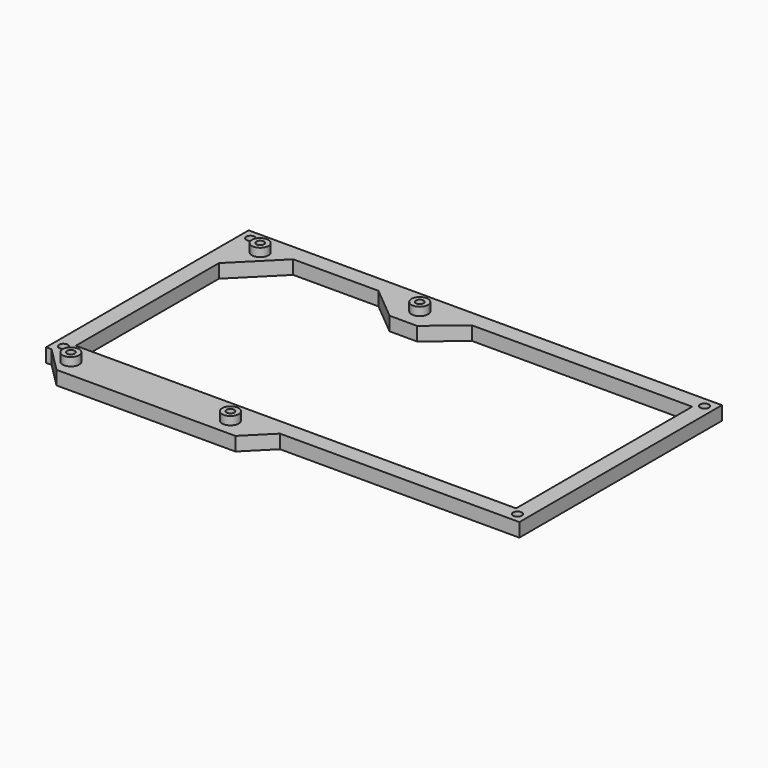
from build123d import *

# Parameters (mm, degrees)
SKETCH_W          = 170
SKETCH_H          = 90
SKETCH_W_2        = 160
SKETCH_H_2        = 80
PAD_DEPTH         = 5
PAD001_DEPTH      = 5
PAD002_DEPTH      = 5
PAD003_DEPTH      = 5
SKETCH004_R       = 1.6
POCKET_DEPTH      = 5
SKETCH005_R       = 3
PAD004_DEPTH      = 3
SKETCH006_R       = 1.4
POCKET001_DEPTH   = 10
COPYSKETCH032_W   = 172
COPYSKETCH032_H   = 92
COPYSKETCH032_W_2 = 170
COPYSKETCH032_H_2 = 90
PAD006_DEPTH      = 5


with BuildPart() as part:
    # Sketch → Pad (new body)
    with BuildSketch(Plane.XY):
        Rectangle(SKETCH_W, SKETCH_H)
        Rectangle(SKETCH_W_2, SKETCH_H_2, mode=Mode.SUBTRACT)
    extrude(amount=PAD_DEPTH)

    # Sketch001 → Pad001 (join)
    with BuildSketch(Plane.XY):
        Polygon((-80, 40), (-80, 25), (-65, 40), align=None)
    extrude(amount=PAD001_DEPTH)

    # Sketch002 → Pad002 (join)
    with BuildSketch(Plane.XY):
        Polygon((-85, -45), (-75, -55), (-10, -55), (0, -45), align=None)
    extrude(amount=PAD002_DEPTH)

    # Sketch003 → Pad003 (join)
    with BuildSketch(Plane.XY):
        Polygon((0, 40), (-12, 30), (-22, 30), (-34, 40), align=None)
    extrude(amount=PAD003_DEPTH)

    # Sketch004 (on Face18 of Pad003) → Pocket (cut)
    with BuildSketch(Plane.XY.offset(5)):
        with Locations((-82.5, 42.5)):
            Circle(SKETCH004_R)
        with Locations((-82.5, -42.5)):
            Circle(SKETCH004_R)
        with Locations((82.5, -42.5)):
            Circle(SKETCH004_R)
        with Locations((82.5, 42.5)):
            Circle(SKETCH004_R)
    extrude(amount=-POCKET_DEPTH, mode=Mode.SUBTRACT)

    # Sketch005 (on Face18 of Pad003) → Pad004 (join)
    with BuildSketch(Plane.XY.offset(5)):
        with Locations((-75, 37.5)):
            Circle(SKETCH005_R)
        with Locations((-17, 37.5)):
            Circle(SKETCH005_R)
        with Locations((-75, -48.5)):
            Circle(SKETCH005_R)
        with Locations((-17, -48.5)):
            Circle(SKETCH005_R)
    extrude(amount=PAD004_DEPTH)

    # Sketch006 (on Face28 of Pad004) → Pocket001 (cut)
    with BuildSketch(Plane.XY.offset(8)):
        with Locations((-75, 37.5)):
            Circle(SKETCH006_R)
        with Locations((-17, 37.5)):
            Circle(SKETCH006_R)
        with Locations((-75, -48.5)):
            Circle(SKETCH006_R)
        with Locations((-17, -48.5)):
            Circle(SKETCH006_R)
    extrude(amount=-POCKET001_DEPTH, mode=Mode.SUBTRACT)

    # CopySketch032 → Pad006 (join)
    with BuildSketch(Plane.XY):
        Rectangle(COPYSKETCH032_W, COPYSKETCH032_H)
        Rectangle(COPYSKETCH032_W_2, COPYSKETCH032_H_2, mode=Mode.SUBTRACT)
    extrude(amount=PAD006_DEPTH)


solid = part.part
